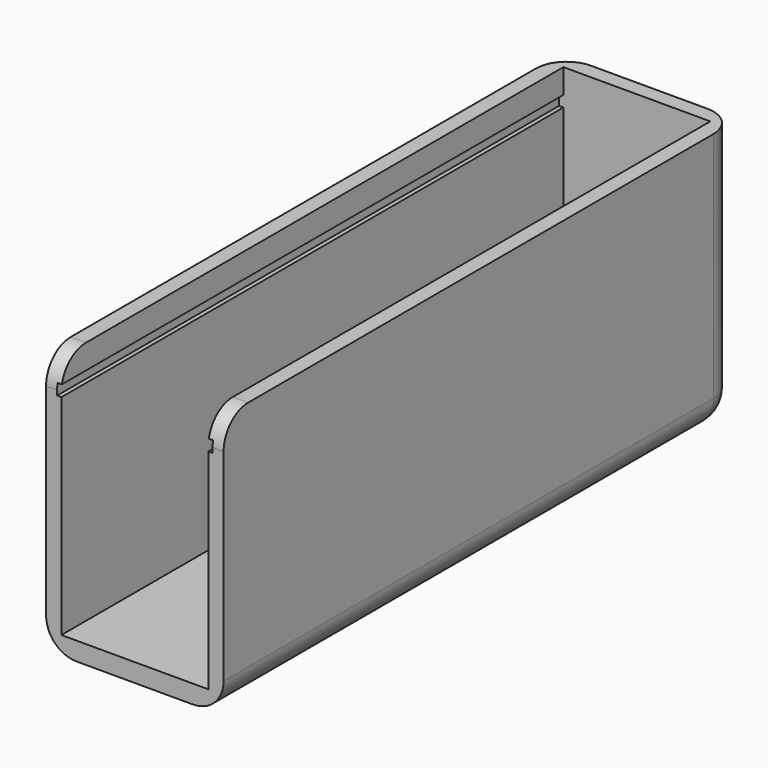
from build123d import *

# Parameters (mm, degrees)
F1_DEPTH = 40
F0_W     = 24
F0_H     = 100
F0_H_2   = 2.5
F2_DEPTH = 3
F3_W     = 0.7
F3_H     = 1.8
F4_DEPTH = 102.5
F5_R     = 5


with BuildPart() as f1:
    # F0 (on Top) → F1 (new body)
    with BuildSketch(Plane.XY):
        Polygon((12, 50), (12, -50), (12, -52.5), (14.5, -52.5), (14.5, 52.5), (-14.5, 52.5), (-14.5, -52.5), (-12, -52.5), (-12, -50), (-12, 50), align=None)
    extrude(amount=F1_DEPTH)

    # F0 (on Top) → F2 (join)
    with BuildSketch(Plane.XY):
        Rectangle(F0_W, F0_H)
        Polygon((12, 50), (12, -50), (12, -52.5), (14.5, -52.5), (14.5, 52.5), (-14.5, 52.5), (-14.5, -52.5), (-12, -52.5), (-12, -50), (-12, 50), align=None)
        with Locations((0, -51.25)):
            Rectangle(F0_W, F0_H_2)
    extrude(amount=-F2_DEPTH)

    # F3 (on face) → F4 (cut)
    with BuildSketch(Plane.XZ.offset(52.5)):
        with Locations((-12.35, 35.1)):
            Rectangle(F3_W, F3_H)
        with Locations((12.35, 35.1)):
            Rectangle(F3_W, F3_H)
    extrude(amount=-F4_DEPTH, mode=Mode.SUBTRACT)

    # F5
    f5_edges = [f1.edges().sort_by_distance(p)[0] for p in [
        (-13.25, -52.5, 40),
        (13.25, -52.5, 40),
        (-14.5, 52.5, 18.5),
        (14.5, 52.5, 18.5),
        (0, 52.5, -3),
        (14.5, 0, -3),
        (-14.5, 0, -3),
    ]]
    fillet(f5_edges, radius=F5_R)


solid = f1.part
